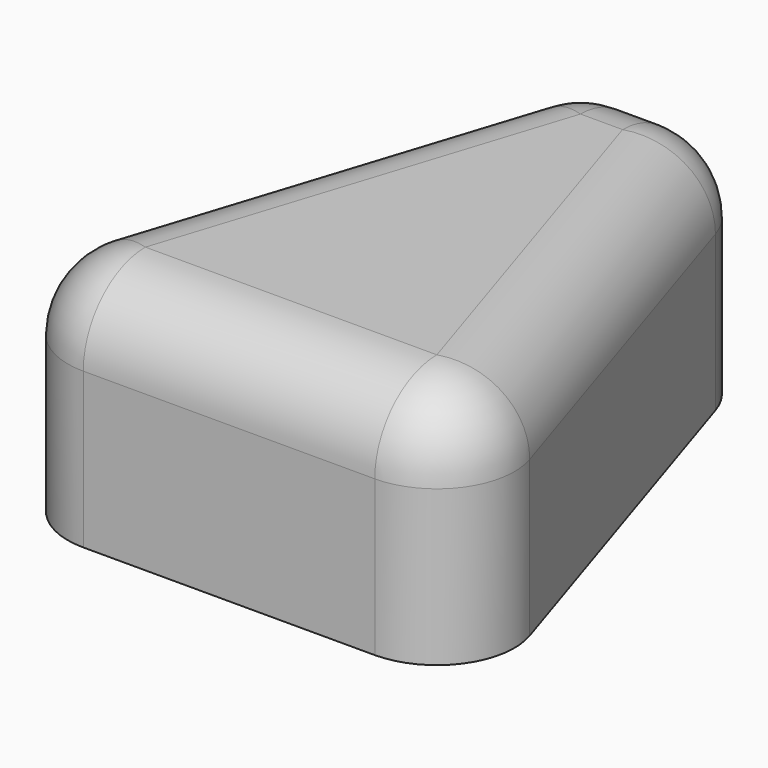
from build123d import *

# Parameters (mm, degrees)
PAD_DEPTH   = 3
FILLET_R    = 1
FILLET001_R = 1


with BuildPart() as part:
    # Sketch → Pad (new body)
    with BuildSketch(Plane.XY):
        Polygon((-3.25, 0), (3.25, 0), (1, 7), (-1, 7), align=None)
    extrude(amount=PAD_DEPTH)

    # Fillet
    fillet_edges = [part.edges().sort_by_distance(p)[0] for p in [
        (-3.25, 0, 1.5),
        (3.25, 0, 1.5),
        (1, 7, 1.5),
        (-1, 7, 1.5),
    ]]
    fillet(fillet_edges, radius=FILLET_R)

    # Fillet001
    fillet001_edges = [part.edges().sort_by_distance(p)[0] for p in [
        (0, 0, 3),
        (-2.68627, 0.410937, 3),
        (2.68627, 0.410937, 3),
        (-2.02664, 3.806009, 3),
        (2.02664, 3.806009, 3),
        (-0.860103, 6.808087, 3),
        (0.860103, 6.808087, 3),
        (0, 7, 3),
    ]]
    fillet(fillet001_edges, radius=FILLET001_R)


solid = part.part
